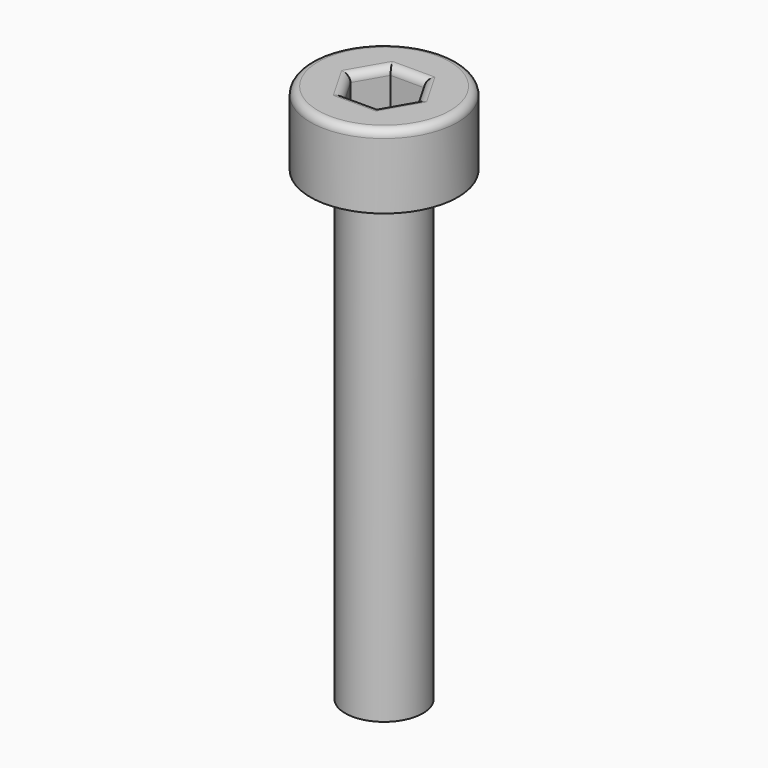
from build123d import *

# Parameters (mm, degrees)
SKETCH042_R              = 1.9
PAD007_DEPTH             = 1.9
POCKET024_DEPTH          = 1.2
SKETCH044_R              = 1
PAD008_DEPTH             = 12
FILLET005_R              = 0.2
BODY008_PLACEMENT_ANGLE  = 90
CLONE004_PLACEMENT_ANGLE = 90


with BuildPart() as part:
    # Sketch042 → Pad007 (new body)
    with BuildSketch(Plane.XY):
        Circle(SKETCH042_R)
    extrude(amount=PAD007_DEPTH)

    # Sketch043 (on Face3 of Pad007) → Pocket024 (cut)
    with BuildSketch(Plane.XY.offset(1.9)):
        Polygon((0.866025, 0), (0.433013, 0.75), (-0.433013, 0.75), (-0.866025, 0), (-0.433013, -0.75), (0.433013, -0.75), align=None)
    extrude(amount=-POCKET024_DEPTH, mode=Mode.SUBTRACT)

    # Sketch044 → Pad008 (join)
    with BuildSketch(Plane.XY):
        Circle(SKETCH044_R)
    extrude(amount=-PAD008_DEPTH)

    # Fillet005
    fillet005_edges = [part.edges().sort_by_distance(p)[0] for p in [
        (-1.9, 0, 1.9),
        (-0.649519, 0.375, 1.9),
        (-0.649519, -0.375, 1.9),
        (0, -0.75, 1.9),
        (0.649519, -0.375, 1.9),
        (0.649519, 0.375, 1.9),
        (0, 0.75, 1.9),
    ]]
    fillet(fillet005_edges, radius=FILLET005_R)


with BuildPart() as part_1:
    # Body008 placement: moved
    add(part.part.moved(Location((40, -5, 15))).rotate(Axis((40, -5, 15), (1, 0, 0)), BODY008_PLACEMENT_ANGLE))


with BuildPart() as part_2:
    # Clone004 placement: moved
    add(part_1.part.moved(Location((-40, -15, -5))).rotate(Axis((-40, -15, -5), (-1, 0, 0)), CLONE004_PLACEMENT_ANGLE))


with BuildPart() as part_3:
    # Body011 placement: moved
    add(part_2.part.moved(Location((67, -5, 21))))


solid = part_3.part
